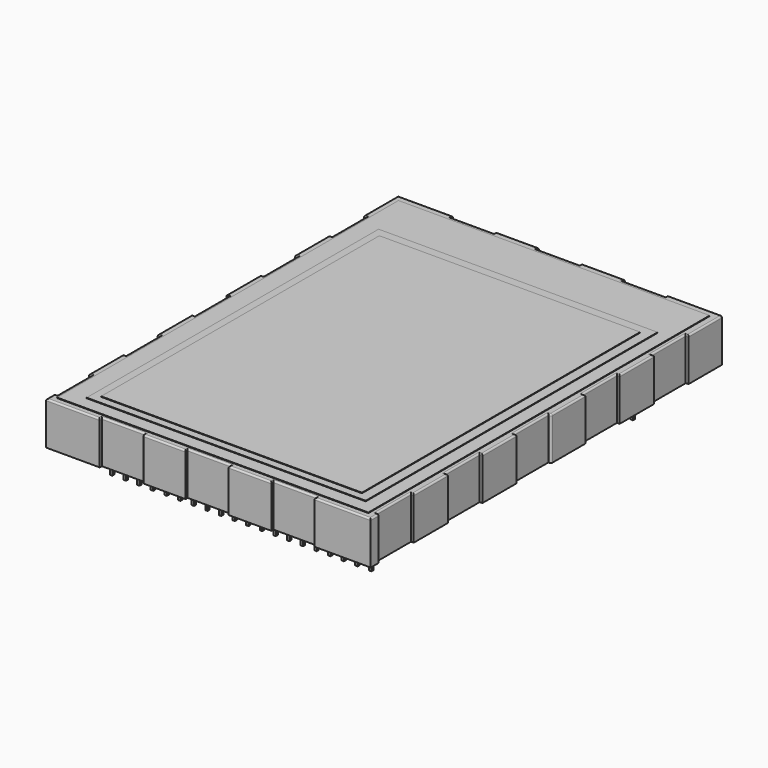
from build123d import *

# Parameters (mm, degrees)
BOX003_W             = 48.6
BOX003_H             = 64.8
BOX003_DEPTH         = 0.1
CYLINDER_R           = 0.3
CYLINDER_DEPTH       = 0.1
BOX002_W             = 52
BOX002_H             = 68
BOX002_DEPTH         = 0.1
BOX_W                = 50.8
BOX_H                = 2
BOX_DEPTH            = 3
ARRAY001_Y_COUNT     = 2
ARRAY001_Y_PITCH     = 60.96
BOX001_W             = 0.46
BOX001_H             = 0.46
BOX001_DEPTH         = 4
ARRAY_X_COUNT        = 20
ARRAY_X_PITCH        = 2.54
ARRAY_Y_COUNT        = 2
ARRAY_Y_PITCH        = 60.96
PAD_DEPTH            = 8
BODY_PLACEMENT_ANGLE = -90
FILLET_R             = 0.3
FILLET001_R          = 0.3
FILLET002_R          = 0.3
FILLET003_R          = 0.3
FILLET004_R          = 0.3
FILLET005_R          = 0.3
FILLET006_R          = 0.3
FILLET007_R          = 0.3
BOX004_W             = 58
BOX004_H             = 79.5
BOX004_DEPTH         = 0.1


with BuildPart() as display:
    # Box003 → Box003 (new body)
    with BuildSketch(Plane(origin=(0, -63.5, 11), x_dir=(1, 0, 0), z_dir=(0, 0, 1))):
        with Locations((24.3, 32.4)):
            Rectangle(BOX003_W, BOX003_H)
    extrude(amount=BOX003_DEPTH)


with BuildPart() as cylinder:
    # Cylinder → Cylinder (new body)
    with BuildSketch(Plane(origin=(-1.7, 3.2, 10.8), x_dir=(1, 0, 0), z_dir=(0, 0, 1))):
        Circle(CYLINDER_R)
    extrude(amount=CYLINDER_DEPTH)


with BuildPart() as displayframe:
    # Box002 → Box002 (new body)
    with BuildSketch(Plane(origin=(-1.5, -65, 10.9), x_dir=(1, 0, 0), z_dir=(0, 0, 1))):
        with Locations((26, 34)):
            Rectangle(BOX002_W, BOX002_H)
    extrude(amount=BOX002_DEPTH)

    # Fusion001: union Cylinder
    add(cylinder.part)


with BuildPart() as pinholder:
    # Box → Box (new body)
    with BuildSketch(Plane(origin=(-1.27, -1, 0), x_dir=(1, 0, 0), z_dir=(0, 0, 1))):
        with Locations((25.4, 1)):
            Rectangle(BOX_W, BOX_H)
    extrude(amount=BOX_DEPTH)

    # Array001 Y: Pinholder ×2


with BuildPart() as pinholder_1:
    add(pinholder.part)
    with Locations(*[(0, -i * ARRAY001_Y_PITCH, 0) for i in range(1, ARRAY001_Y_COUNT)]):
        add(pinholder.part)


with BuildPart() as pins:
    # Box001 → Box001 (new body)
    with BuildSketch(Plane(origin=(-0.23, -0.23, -2.8), x_dir=(1, 0, 0), z_dir=(0, 0, 1))):
        with Locations((0.23, 0.23)):
            Rectangle(BOX001_W, BOX001_H)
    extrude(amount=BOX001_DEPTH)

    # Array X: Pins ×20


with BuildPart() as pins_1:
    add(pins.part)
    with Locations(*[(i * ARRAY_X_PITCH, 0, 0) for i in range(1, ARRAY_X_COUNT)]):
        add(pins.part)

    # Array Y: Pins ×2


with BuildPart() as pins_2:
    add(pins_1.part)
    with Locations(*[(0, -i * ARRAY_Y_PITCH, 0) for i in range(1, ARRAY_Y_COUNT)]):
        add(pins_1.part)


with BuildPart() as fillet007:
    # Sketch → Pad (new body)
    with BuildSketch(Plane.XY):
        Polygon((-13.32, 54.38), (-5.32, 54.38), (-5.32, 53.88), (2.68, 53.88), (2.68, 54.38), (10.68, 54.38), (10.68, 53.88), (18.68, 53.88), (18.68, 54.38), (26.68, 54.38), (26.68, 53.88), (34.68, 53.88), (34.68, 54.38), (42.68, 54.38), (42.68, 53.88), (50.68, 53.88), (50.68, 54.38), (58.68, 54.38), (58.68, 53.88), (66.68, 53.88), (66.68, 54.38), (68.68, 54.38), (68.68, 43.88), (68.18, 43.88), (68.18, 35.88), (68.68, 35.88), (68.68, 27.88), (68.18, 27.88), (68.18, 19.88), (68.68, 19.88), (68.68, 11.88), (68.18, 11.88), (68.18, 3.88), (68.68, 3.88), (68.68, -6.12), (66.68, -6.12), (66.68, -5.62), (58.68, -5.62), (58.68, -6.12), (50.68, -6.12), (50.68, -5.62), (42.68, -5.62), (42.68, -6.12), (34.68, -6.12), (34.68, -5.62), (26.68, -5.62), (26.68, -6.12), (18.68, -6.12), (18.68, -5.62), (10.68, -5.62), (10.68, -6.12), (2.68, -6.12), (2.68, -5.62), (-5.32, -5.62), (-5.32, -6.12), (-13.32, -6.12), (-13.32, 4.13), (-12.82, 4.13), (-12.82, 12.13), (-13.32, 12.13), (-13.32, 20.13), (-12.82, 20.13), (-12.82, 28.13), (-13.32, 28.13), (-13.32, 36.13), (-12.82, 36.13), (-12.82, 44.13), (-13.32, 44.13), align=None)
    extrude(amount=PAD_DEPTH)


with BuildPart() as fillet007_1:
    # Body placement: moved
    add(fillet007.part.moved(Location((0, 0, 2.8))).rotate(Axis((0, 0, 2.8), (0, 0, 1)), BODY_PLACEMENT_ANGLE))

    # Fusion: union Pinholder, Pins
    add(pinholder_1.part)
    add(pins_2.part)

    # Fillet
    fillet_edges = [fillet007_1.edges().sort_by_distance(p)[0] for p in [
        (54.38, -67.68, 10.8),
        (49.13, -68.68, 10.8),
        (43.88, -68.43, 10.8),
        (39.88, -68.18, 10.8),
        (35.88, -68.43, 10.8),
        (31.88, -68.68, 10.8),
        (27.88, -68.43, 10.8),
        (23.88, -68.18, 10.8),
        (19.88, -68.43, 10.8),
        (15.88, -68.68, 10.8),
    ]]
    fillet(fillet_edges, radius=FILLET_R)

    # Fillet001
    fillet001_edges = [fillet007_1.edges().sort_by_distance(p)[0] for p in [
        (53.98, -66.68, 10.8),
        (53.88, -62.68, 10.8),
        (54.13, -58.68, 10.8),
        (54.38, -54.68, 10.8),
        (54.13, -50.68, 10.8),
        (53.88, -46.68, 10.8),
    ]]
    fillet(fillet001_edges, radius=FILLET001_R)

    # Fillet002
    fillet002_edges = [fillet007_1.edges().sort_by_distance(p)[0] for p in [
        (54.38, -22.68, 10.8),
        (54.13, -18.68, 10.8),
        (53.88, -14.68, 10.8),
        (54.13, -10.68, 10.8),
        (54.38, -6.68, 10.8),
        (54.13, -2.68, 10.8),
        (53.88, 1.32, 10.8),
        (54.13, 5.32, 10.8),
        (54.38, 9.32, 10.8),
    ]]
    fillet(fillet002_edges, radius=FILLET002_R)

    # Fillet003
    fillet003_edges = [fillet007_1.edges().sort_by_distance(p)[0] for p in [
        (53.98, -26.68, 10.8),
        (53.88, -30.68, 10.8),
        (54.13, -34.68, 10.8),
        (54.38, -38.68, 10.8),
        (54.13, -42.68, 10.8),
    ]]
    fillet(fillet003_edges, radius=FILLET003_R)

    # Fillet004
    fillet004_edges = [fillet007_1.edges().sort_by_distance(p)[0] for p in [
        (49.105, 13.32, 10.8),
        (44.13, 13.07, 10.8),
        (40.13, 12.82, 10.8),
        (36.13, 13.07, 10.8),
        (32.13, 13.32, 10.8),
        (28.13, 13.07, 10.8),
        (24.13, 12.82, 10.8),
    ]]
    fillet(fillet004_edges, radius=FILLET004_R)

    # Fillet005
    fillet005_edges = [fillet007_1.edges().sort_by_distance(p)[0] for p in [
        (20.13, 13.07, 10.8),
        (16.13, 13.32, 10.8),
        (12.13, 13.07, 10.8),
        (8.13, 12.82, 10.8),
        (4.13, 13.07, 10.8),
        (-0.995, 13.32, 10.8),
        (-6.12, 9.32, 10.8),
        (-5.87, 5.32, 10.8),
        (-5.62, 1.32, 10.8),
    ]]
    fillet(fillet005_edges, radius=FILLET005_R)

    # Fillet006
    fillet006_edges = [fillet007_1.edges().sort_by_distance(p)[0] for p in [
        (-5.87, -2.68, 10.8),
        (-6.12, -6.68, 10.8),
        (-5.87, -10.68, 10.8),
        (-5.62, -14.68, 10.8),
        (-5.87, -18.68, 10.8),
        (-6.12, -22.68, 10.8),
        (-5.62, -30.68, 10.8),
    ]]
    fillet(fillet006_edges, radius=FILLET006_R)

    # Fillet007
    fillet007_edges = [fillet007_1.edges().sort_by_distance(p)[0] for p in [
        (-5.87, -34.68, 10.8),
        (-6.12, -38.68, 10.8),
        (-5.87, -42.68, 10.8),
        (-5.62, -46.68, 10.8),
        (-5.87, -50.68, 10.8),
        (-6.12, -54.68, 10.8),
        (-5.87, -58.68, 10.8),
        (-5.62, -62.68, 10.8),
        (-5.87, -66.68, 10.8),
        (-6.12, -67.68, 10.8),
        (-1.12, -68.68, 10.8),
        (3.88, -68.43, 10.8),
        (7.88, -68.18, 10.8),
        (11.88, -68.28, 10.8),
    ]]
    fillet(fillet007_edges, radius=FILLET007_R)


with BuildPart() as displaybase:
    # Box004 → Box004 (new body)
    with BuildSketch(Plane(origin=(-5, -67.5, 10.8), x_dir=(1, 0, 0), z_dir=(0, 0, 1))):
        with Locations((29, 39.75)):
            Rectangle(BOX004_W, BOX004_H)
    extrude(amount=BOX004_DEPTH)


solid = Compound([display.part, displayframe.part, fillet007_1.part, displaybase.part])
